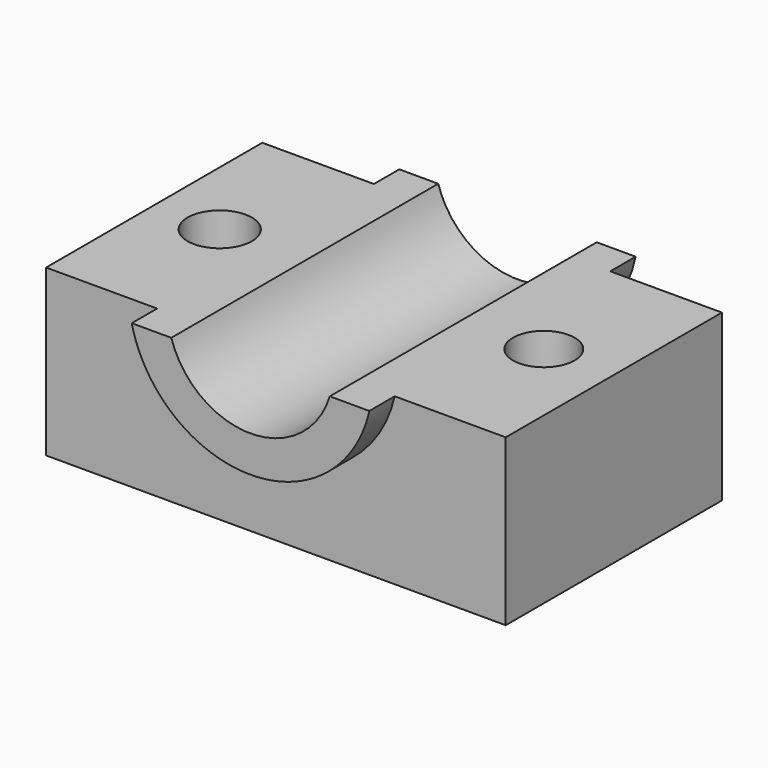
from build123d import *

# Parameters (mm, degrees)
F0_W      = 122.466728
F0_H      = 71.997046
F1_DEPTH  = 76.2
F2_R      = 32.46156
F3_DEPTH  = 44.45
F4_R      = 32.157743
F5_DEPTH  = 44.45
F6_R      = 22.1
F7_DEPTH  = 88.901
F8_R      = 8.5618
F8_R_2    = 8.213931
F9_DEPTH  = 76.201
F10_W     = 122.466728
F10_H     = 40.422514
F11_DEPTH = 80.449523
F12_W     = 122.765154
F12_H     = 41.263021
F13_DEPTH = 80.449523
F15_DEPTH = 8.452477


with BuildPart() as f1:
    # F0 (on Top) → F1 (new body)
    with BuildSketch(Plane.XY):
        Rectangle(F0_W, F0_H)
    extrude(amount=F1_DEPTH)

    # F2 (on Front) → F3 (join)
    with BuildSketch(Plane.XZ):
        with Locations((0, 51.306862)):
            Circle(F2_R)
    extrude(amount=F3_DEPTH)

    # F4 (on Front) → F5 (join)
    with BuildSketch(Plane.XZ):
        with Locations((0, 50.609048)):
            Circle(F4_R)
    extrude(amount=-F5_DEPTH)

    # F6 (on face) → F7 (cut, through all)
    with BuildSketch(Plane(origin=(0, 44.45, 0), x_dir=(-1, 0, 0), z_dir=(0, 1, 0))):
        with Locations((0, 50.609048)):
            Circle(F6_R)
    extrude(amount=-F7_DEPTH, mode=Mode.SUBTRACT)

    # F8 (on face) → F9 (cut, through all)
    with BuildSketch(Plane.XY.offset(76.2)):
        with Locations((-43.772288, 0)):
            Circle(F8_R)
        with Locations((42.576324, 0)):
            Circle(F8_R_2)
    extrude(amount=-F9_DEPTH, mode=Mode.SUBTRACT)

    # F10 (on face) → F11 (cut, through all)
    with BuildSketch(Plane.XZ.offset(35.998523)):
        with Locations((0, 64.292446)):
            Rectangle(F10_W, F10_H)
    extrude(amount=-F11_DEPTH, mode=Mode.SUBTRACT)

    # F12 (on face) → F13 (cut, through all)
    with BuildSketch(Plane.XZ.offset(35.998523)):
        with Locations((0.149213, 64.712699)):
            Rectangle(F12_W, F12_H)
    extrude(amount=-F13_DEPTH, mode=Mode.SUBTRACT)

    # F14 (on face) → F15 (cut, through all)
    with BuildSketch(Plane(origin=(0, -35.998523, 0), x_dir=(-1, 0, 0), z_dir=(0, 1, 0))):
        with BuildLine():
            Line((-31.647156, 44.081189), (31.647156, 44.081189))
            ThreePointArc((31.647156, 44.081189), (0, 84.199368), (-31.647156, 44.081189))
        make_face()
    extrude(amount=-F15_DEPTH, mode=Mode.SUBTRACT)


solid = f1.part
